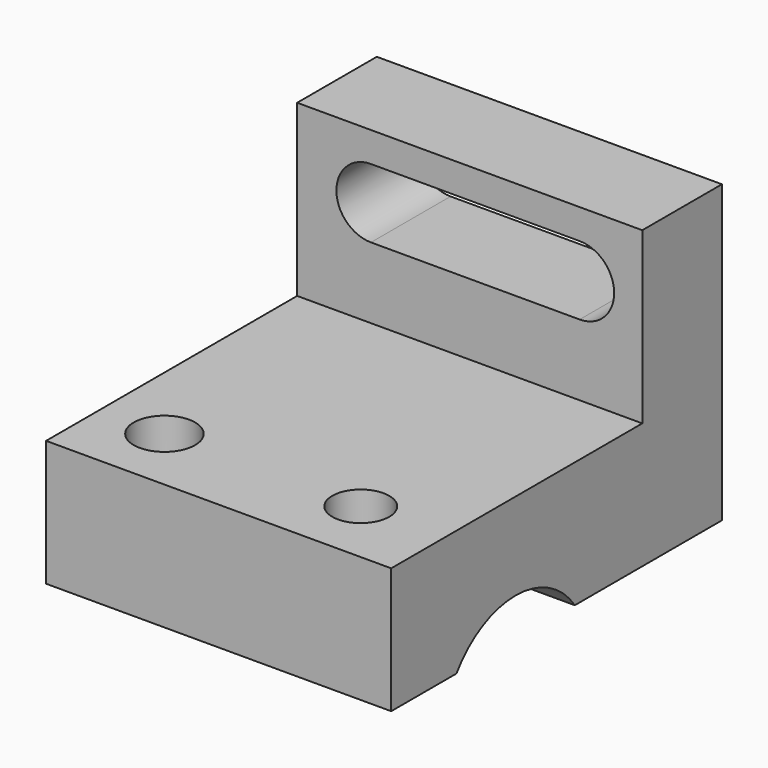
from build123d import *

# Parameters (mm, degrees)
F1_DEPTH = 76.2
F2_R     = 6.778033
F2_R_2   = 6.285837
F3_DEPTH = 63.246
F5_DEPTH = 25.4


with BuildPart() as f1:
    # F0 (on Right) → F1 (new body)
    with BuildSketch(Plane.YZ):
        with BuildLine():
            ThreePointArc((-32.663602, 0), (-16.331801, 8.548074), (0, 0))
            Line((0, 0), (18.621311, 0))
            Line((18.621311, 0), (40.600557, 0))
            Line((40.600557, 0), (40.600557, 65.327212))
            Line((40.600557, 65.327212), (18.621311, 65.327212))
            Line((18.621311, 65.327212), (18.621311, 27.779331))
            Line((18.621311, 27.779331), (-50.674375, 27.779331))
            Line((-50.674375, 27.779331), (-50.674375, 0))
            Line((-50.674375, 0), (-32.663602, 0))
        make_face()
    extrude(amount=F1_DEPTH)

    # F2 (on face) → F3 (cut)
    with BuildSketch(Plane.XY.offset(27.779331)):
        with Locations((14.289155, -35.868905)):
            Circle(F2_R)
        with Locations((57.637118, -35.868905)):
            Circle(F2_R_2)
    extrude(amount=-F3_DEPTH, mode=Mode.SUBTRACT)

    # F4 (on face) → F5 (cut)
    with BuildSketch(Plane(origin=(0, 40.600557, 0), x_dir=(-1, 0, 0), z_dir=(0, 1, 0))):
        with BuildLine():
            Line((-16.286157, 58.71784), (-62.371738, 58.71784))
            ThreePointArc((-62.371738, 58.71784), (-69.991738, 51.09784), (-62.371738, 43.47784))
            Line((-62.371738, 43.47784), (-16.286157, 43.47784))
            ThreePointArc((-16.286157, 43.47784), (-8.666157, 51.09784), (-16.286157, 58.71784))
        make_face()
    extrude(amount=-F5_DEPTH, mode=Mode.SUBTRACT)


solid = f1.part
